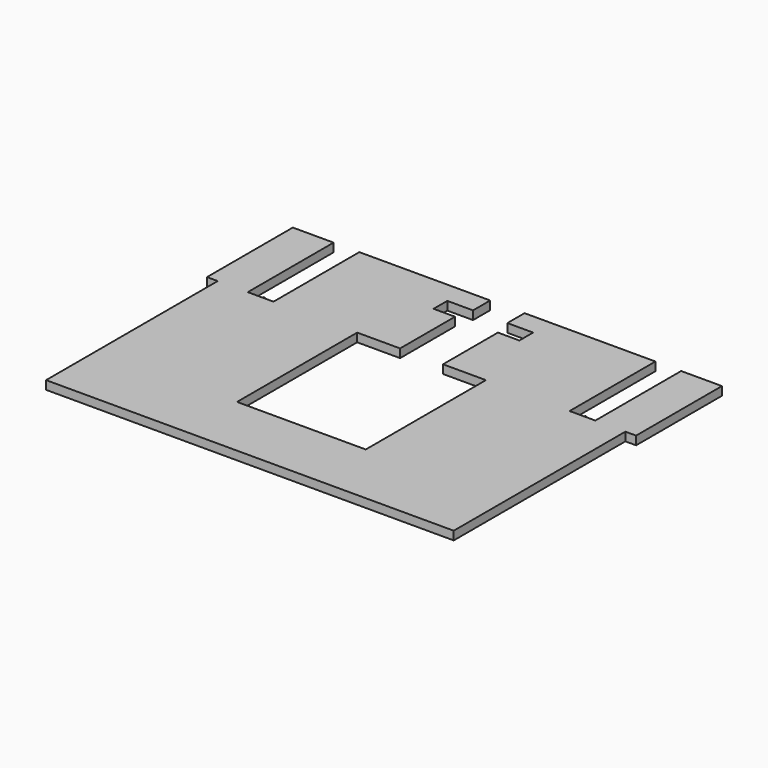
from build123d import *

# Parameters (mm, degrees)
F1_DEPTH      = 2
F1_DEPTH_BACK = 2
F2_R          = 1
F3_DEPTH      = 2


with BuildPart() as f1:
    # F0 (on Top) → F1 (new body, two sides)
    with BuildSketch(Plane.XY) as f1_sk:
        Polygon((6, 0), (-6, 0), (-6, 50), (-25, 50), (-25, 0), (-20, 0), (-20, -100), (170, -100), (170, 0), (175, 0), (175, 50), (156, 50), (156, 0), (144, 0), (144, 50), (83, 50), (83, 40), (95, 40), (95, 32), (85, 32), (85, 0), (105, 0), (105, -70), (45, -70), (45, 0), (65, 0), (65, 32), (55, 32), (55, 40), (67, 40), (67, 50), (6, 50), align=None)
    extrude(amount=F1_DEPTH)
    extrude(f1_sk.sketch, amount=-F1_DEPTH_BACK)

    # F2 (on face) → F3 (join)
    with BuildSketch(Plane(origin=(0, 0, 0), x_dir=(-1, 0, 0), z_dir=(0, 1, 0))):
        with Locations((-150, 0)):
            Circle(F2_R)
        Circle(F2_R)
    extrude(amount=F3_DEPTH)


solid = f1.part
